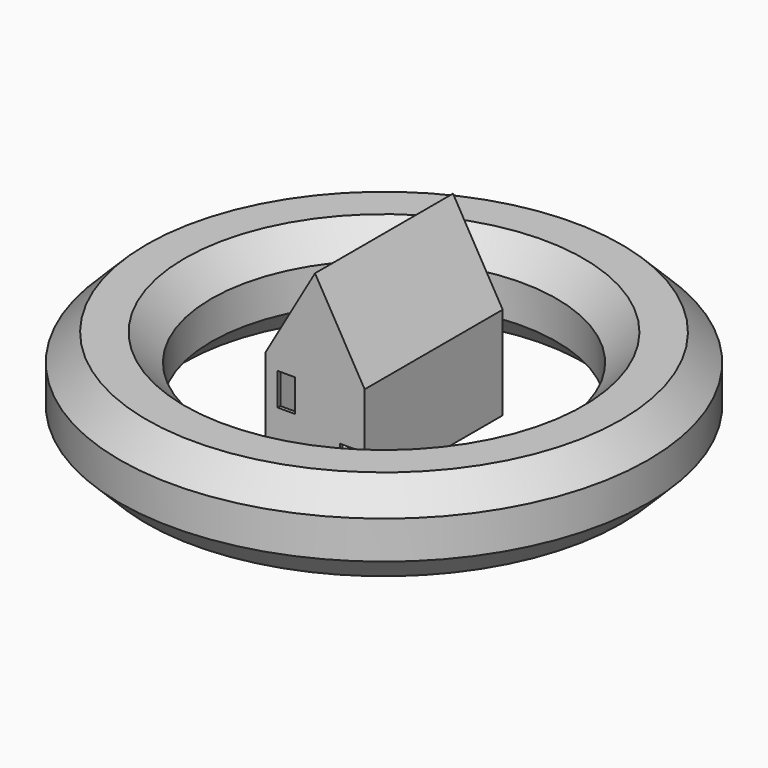
from build123d import *

# Parameters (mm, degrees)
F0_W     = 12.7614177763
F0_H     = 23.8213203847
F0_W_2   = 15.7390795648
F0_H_2   = 27.3968875408
F1_DEPTH = 63.5
F2_T     = -2.54
F3_DEPTH = 63.5


with BuildPart() as f1:
    # F0 (on Front) → F1 (new body, symmetric)
    with BuildSketch(Plane.XZ):
        Polygon((-36.5679125852, 34.2651693315), (-36.5679125852, -34.2651693315), (18.2191394269, -34.2651693315), (18.2191394269, -6.8682817907), (33.9582189918, -6.8682817907), (33.9582189918, -34.2651693315), (36.5679125852, -34.2651693315), (36.5679125852, 34.2651693315), (0, 97.6026518557), align=None)
        with Locations((-21.200472489, 13.4865129367)):
            Rectangle(F0_W, F0_H, mode=Mode.SUBTRACT)
        with Locations((26.0886792094, -20.5667255611)):
            Rectangle(F0_W_2, F0_H_2)
        with Locations((-21.200472489, 13.4865129367)):
            Rectangle(F0_W, F0_H)
    extrude(amount=F1_DEPTH, both=True)

    # F2
    f2_openings = [f1.faces().sort_by_distance(p)[0] for p in [
        (0, 0, -34.265169),
    ]]
    offset(amount=F2_T, openings=f2_openings)

    # F0 (on Front) → F3 (cut, through all)
    with BuildSketch(Plane.XZ):
        with Locations((-21.200472489, 13.4865129367)):
            Rectangle(F0_W, F0_H)
        with Locations((26.0886792094, -20.5667255611)):
            Rectangle(F0_W_2, F0_H_2)
    extrude(amount=F3_DEPTH, mode=Mode.SUBTRACT)


with BuildPart() as f5:
    # F4 (on Front) → F5 (revolve)
    with BuildSketch(Plane.XZ):
        Polygon((-146.8865556031, -33.6532549442), (-127.1729352748, -13.9396346159), (-127.1729352748, 13.9396346159), (-146.8865556031, 33.6532549442), (-174.7658248349, 33.6532549442), (-194.4794451632, 13.9396346159), (-194.4794451632, -13.9396346159), (-174.7658248349, -33.6532549442), align=None)
    revolve(axis=Axis((0, 0, 48.9743426442), (0, 0, 1)))


solid = Compound([f1.part, f5.part])
